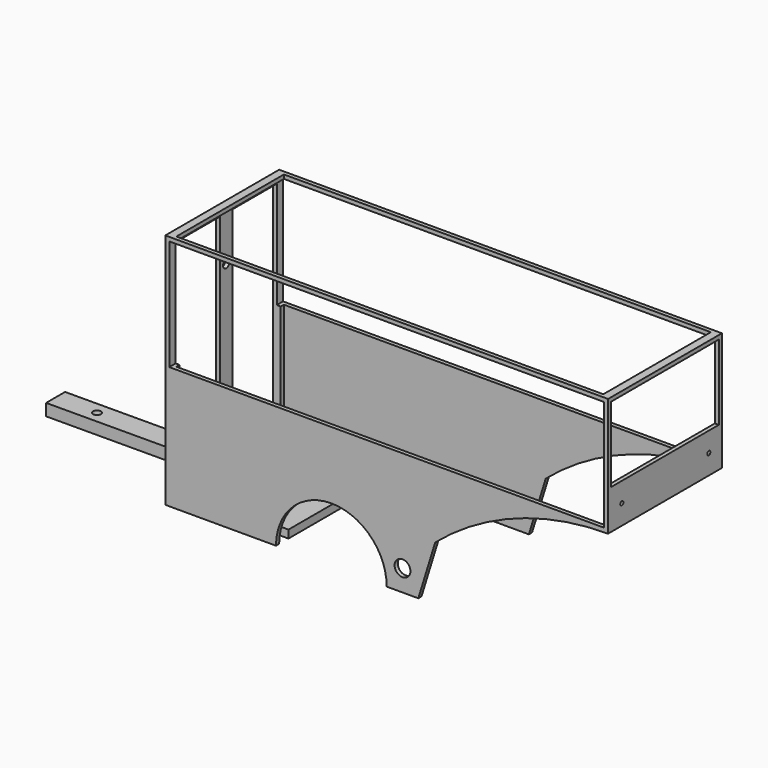
from build123d import *

# Parameters (mm, degrees)
F0_W      = 711.2
F0_H      = 228.6
F0_W_2    = 685.8
F0_H_2    = 215.9
F1_DEPTH  = 381
F2_W      = 698.5
F2_H      = 136.616886
F3_DEPTH  = 190.5
F4_DEPTH  = 254
F5_W      = 203.2
F5_H      = 355.6
F6_DEPTH  = 25.4
F8_DEPTH  = 12.7
F9_W      = 698.5
F9_H      = 136.616886
F9_H_2    = 41.183114
F10_DEPTH = 381
F12_DEPTH = 25.4
F13_W     = 25.4
F13_H     = 381
F14_DEPTH = 6.35
F15_W     = 215.9
F15_H     = 120.65
F16_DEPTH = 25.4
F18_D     = 6.35
F20_D     = 12.7
F22_DEPTH = 6.35
F24_DEPTH = 6.35
F26_D     = 25.4
F28_DEPTH = 19.05
F30_D     = 12.7


with BuildPart() as f1:
    # F0 (on Top) → F1 (new body)
    with BuildSketch(Plane.XY):
        Rectangle(F0_W, F0_H)
        Rectangle(F0_W_2, F0_H_2, mode=Mode.SUBTRACT)
    extrude(amount=F1_DEPTH)

    # F2 (on face) → F3 (cut, symmetric)
    with BuildSketch(Plane.XZ.offset(114.3)):
        with Locations((0, 306.341557)):
            Rectangle(F2_W, F2_H)
    extrude(amount=F3_DEPTH, both=True, mode=Mode.SUBTRACT)

    # F2 (on face) → F4 (cut, symmetric)
    with BuildSketch(Plane.XZ.offset(114.3)):
        with BuildLine():
            Line((355.6, 0), (355.6, 190.5))
            ThreePointArc((355.6, 190.5), (153.893772, 139.874959), (0, 0))
            Line((0, 0), (355.6, 0))
        make_face()
    extrude(amount=F4_DEPTH, both=True, mode=Mode.SUBTRACT)

    # F5 (on face) → F6 (cut)
    with BuildSketch(Plane(origin=(-355.6, 0, 0), x_dir=(0, -1, 0), z_dir=(-1, 0, 0))):
        with Locations((0, 190.5)):
            Rectangle(F5_W, F5_H)
    extrude(amount=-F6_DEPTH, mode=Mode.SUBTRACT)

    # F7 (on Top) → F8 (join)
    with BuildSketch(Plane.XY):
        Polygon((-177.723765, 88.70177), (-356.087953, 88.70177), (-355.447531, -89.342214), (-177.723765, -89.342214), align=None)
    extrude(amount=F8_DEPTH)

    # F9 (on face) → F10 (cut)
    with BuildSketch(Plane.XZ.offset(114.3)):
        with Locations((0, 306.341557)):
            Rectangle(F9_W, F9_H)
        with Locations((0, 217.441557)):
            Rectangle(F9_W, F9_H_2)
    extrude(amount=-F10_DEPTH, mode=Mode.SUBTRACT)

    # F11 (on face) → F12 (cut)
    with BuildSketch(Plane.XZ.offset(114.3)):
        with BuildLine():
            Line((-177.8, 0), (0, 0))
            ThreePointArc((0, 0), (-88.9, 88.9), (-177.8, 0))
        make_face()
    extrude(amount=-F12_DEPTH, mode=Mode.SUBTRACT)

    # F13 (on face) → F14 (join)
    with BuildSketch(Plane(origin=(-355.6, 0, 0), x_dir=(0, -1, 0), z_dir=(-1, 0, 0))):
        with Locations((0, 190.5)):
            Rectangle(F13_W, F13_H)
    extrude(amount=-F14_DEPTH)

    # F15 (on face) → F16 (cut)
    with BuildSketch(Plane.YZ.offset(355.6)):
        with Locations((0, 314.325)):
            Rectangle(F15_W, F15_H)
    extrude(amount=-F16_DEPTH, mode=Mode.SUBTRACT)

    # F18 (through all)
    with Locations(Plane.YZ.offset(355.6)):
        with Locations((-86.692668, 222.25), (88.000588, 222.25)):
            Hole(F18_D / 2)

    # F20 (through all)
    with Locations(Plane(origin=(-355.6, 0, 0), x_dir=(0, -1, 0), z_dir=(-1, 0, 0))):
        with Locations((0, 296.3956), (0, 74.620992)):
            Hole(F20_D / 2)

    # F21 (on face) → F22 (join)
    with BuildSketch(Plane.XZ.offset(114.3)):
        with BuildLine():
            ThreePointArc((77.958857, 87.959228), (35.939566, 46.673864), (0, 0))
            Line((0, 0), (50.8, 0))
            Line((50.8, 0), (77.958857, 87.959228))
        make_face()
    extrude(amount=-F22_DEPTH)

    # F23 (on face) → F24 (join)
    with BuildSketch(Plane(origin=(0, 114.3, 0), x_dir=(-1, 0, 0), z_dir=(0, 1, 0))):
        with BuildLine():
            ThreePointArc((0, 0), (-35.80659, 46.523758), (-77.65419, 87.69839))
            Line((-77.65419, 87.69839), (-50.599013, 0))
            Line((-50.599013, 0), (0, 0))
        make_face()
    extrude(amount=-F24_DEPTH)

    # F26 (through all)
    with Locations(Plane(origin=(0, 114.3, 0), x_dir=(-1, 0, 0), z_dir=(0, 1, 0))):
        with Locations((-25.399767, 34.288563)):
            Hole(F26_D / 2)

    # F27 (on face) → F28 (join)
    with BuildSketch(Plane(origin=(0, 0, 0), x_dir=(1, 0, 0), z_dir=(0, 0, -1))):
        Polygon((-355.837416, -19.05), (-355.700371, 19.049877), (-622.535691, 20.00968), (-622.535691, -18.090689), align=None)
    extrude(amount=-F28_DEPTH)

    # F30 (through all)
    with Locations(Plane.XY.offset(19.05)):
        with Locations((-555.843129, -0.959495), (-422.458004, -0.959495)):
            Hole(F30_D / 2)


solid = f1.part
